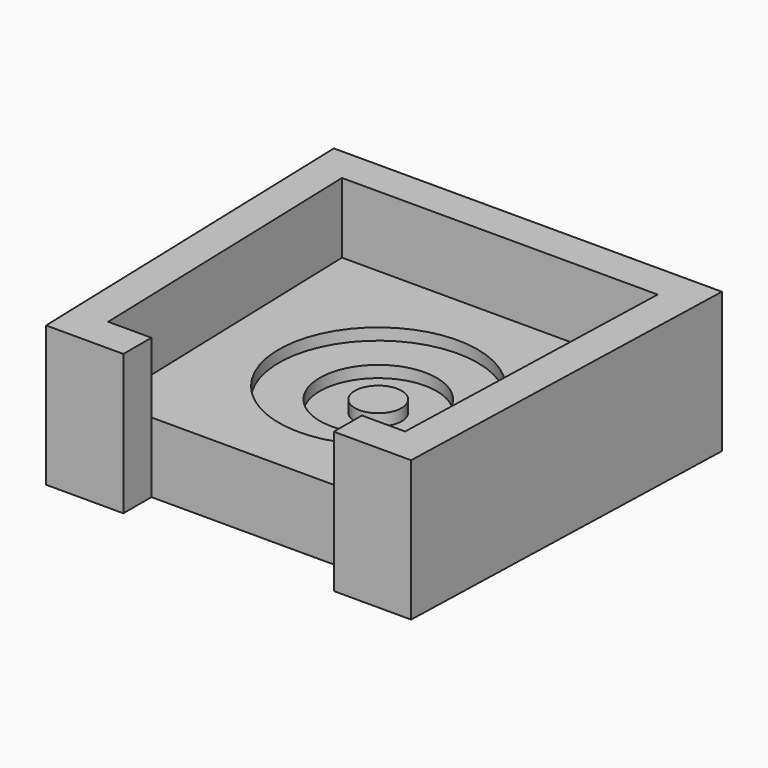
from build123d import *

# Parameters (mm, degrees)
F1_DEPTH  = 30
F2_W      = 90
F2_H      = 30
F3_DEPTH  = 15
F4_R      = 42.5
F5_DEPTH  = 5
F6_R      = 10
F7_DEPTH  = 5
F8_R      = 25
F9_DEPTH  = 5
F11_DEPTH = 20


with BuildPart() as f1:
    # F0 (on Top) → F1 (new body)
    with BuildSketch(Plane.XY):
        Polygon((82.968637, 80), (-82.968637, 80), (-78.04556, -80), (78.04556, -80), align=None)
        Polygon((-63.5, -65), (-67.5, 65), (67.5, 65), (63.5, -65), align=None, mode=Mode.SUBTRACT)
    extrude(amount=F1_DEPTH)

    # F2 (on face) → F3 (cut, through all)
    with BuildSketch(Plane.XZ.offset(80)):
        with Locations((0, 15)):
            Rectangle(F2_W, F2_H)
    extrude(amount=-F3_DEPTH, mode=Mode.SUBTRACT)

    # F4 (on Top) → F5 (join)
    with BuildSketch(Plane.XY):
        Polygon((82.968637, 80), (-82.968637, 80), (-78.04556, -80), (-45, -80), (-45, -65), (45, -65), (45, -80), (78.04556, -80), align=None)
        Circle(F4_R, mode=Mode.SUBTRACT)
    extrude(amount=-F5_DEPTH)

    # F8 (on face) → F9 (join)
    with BuildSketch(Plane(origin=(0, 0, -5), x_dir=(1, 0, 0), z_dir=(0, 0, -1))):
        Polygon((-45, 80), (-78.04556, 80), (-82.968637, -80), (82.968637, -80), (78.04556, 80), (45, 80), (45, 65), (-45, 65), align=None)
        Circle(F8_R, mode=Mode.SUBTRACT)
    extrude(amount=F9_DEPTH)



with BuildPart() as f7:
    # F6 (on face) → F7 (new body)
    with BuildSketch(Plane(origin=(0, 0, -5), x_dir=(1, 0, 0), z_dir=(0, 0, -1))):
        Circle(F6_R)
    extrude(amount=F7_DEPTH)


with BuildPart() as f1_1:
    add(f1.part)

    add(f7.part)  # F11 merges F7
    # F10 (on face) → F11 (join)
    with BuildSketch(Plane(origin=(0, 0, -10), x_dir=(1, 0, 0), z_dir=(0, 0, -1))):
        Polygon((-78.04556, 80), (-82.968637, -80), (82.968637, -80), (78.04556, 80), (45, 80), (45, 65), (-45, 65), (-45, 80), align=None)
    extrude(amount=F11_DEPTH)


solid = f1_1.part
